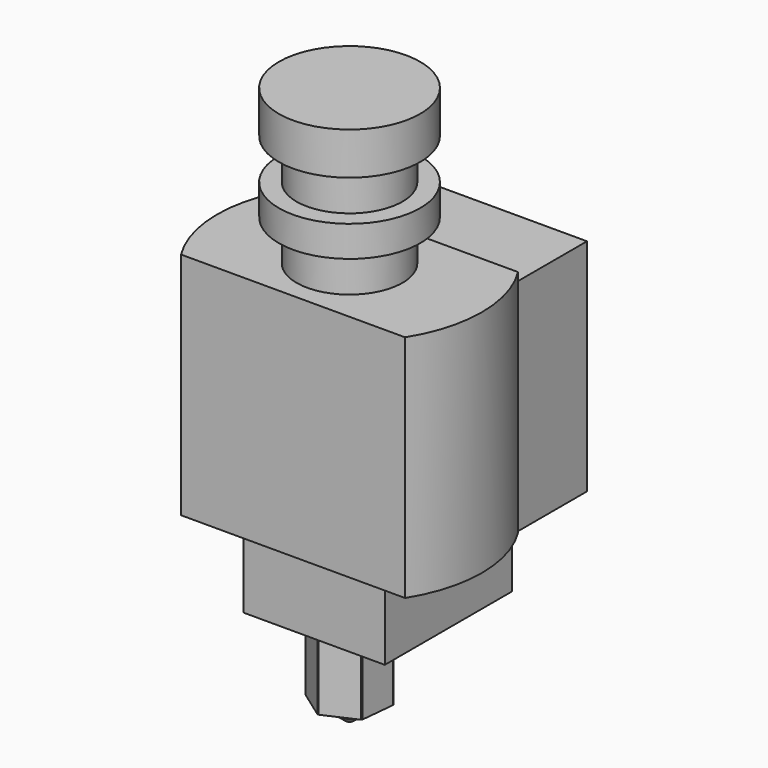
from build123d import *

# Parameters (mm, degrees)
F2_W          = 37.102
F2_H          = 46.096
F2_W_2        = 30
F2_H_2        = 16
F3_DEPTH      = 27.4
F4_W          = 5.5
F4_H          = 8
F4_W_2        = 5
F5_DEPTH      = 5
F5_DEPTH_BACK = 13
F6_R          = 5.9111779492
F7_DEPTH      = 25
F8_W          = 25
F8_H          = 24.945173396
F9_DEPTH      = 10


with BuildPart() as f1:
    # F0 (on Front) → F1 (revolve)
    with BuildSketch(Plane.XZ):
        Polygon((-1.5167587905, -24.0440348498), (-0.4654595977, -24.895950213), (0, -24.895950213), (0, -5.4683293174), (0, 38.0978930385), (-8, 38.0978930385), (-8, 33.2978930385), (-6, 33.2978930385), (-6, 28.6978930385), (-8, 28.6978930385), (-8, 25.1978930385), (-6, 25.1978930385), (-6, 20.5978930385), (-15, 20.5978930385), (-15, -5.4021069615), (-2.5, -5.4021069615), (-2.5, -14.9021069615), (-4, -14.9021069615), (-4, -22.9021069615), (-1.9699050371, -22.9202326714), (-1.5167587905, -23.1921206525), align=None)
    revolve(axis=Axis((0, 0, 26.8247116869), (0, 0, 1)))

    # F2 (on face) → F3 (cut)
    with BuildSketch(Plane.XY.offset(20.5978930385)):
        Rectangle(F2_W, F2_H)
        Rectangle(F2_W_2, F2_H_2, mode=Mode.SUBTRACT)
    extrude(amount=-F3_DEPTH, mode=Mode.SUBTRACT)

    # F4 (on Front) → F5 (join, two sides)
    with BuildSketch(Plane.XZ) as f5_sk:
        Polygon((8, -6.812995024), (2.5, -6.812995024), (2.5, -14.812995024), (4, -14.812995024), (8, -14.812995024), align=None)
        with Locations((-5.25, -10.812995024)):
            Rectangle(F4_W, F4_H)
        with Locations((0, -10.812995024)):
            Rectangle(F4_W_2, F4_H)
    extrude(amount=F5_DEPTH)
    extrude(f5_sk.sketch, amount=-F5_DEPTH_BACK)

    # F6 (on face) → F7 (cut)
    with BuildSketch(Plane(origin=(0, 0, -14.812995024), x_dir=(1, 0, 0), z_dir=(0, 0, -1))):
        Circle(F6_R)
        Polygon((3.6810046325, -1.6683939069), (0.3956308093, -4.0220404767), (-3.2853738232, -2.3536465697), (-3.6810046325, 1.6683939069), (-0.3956308093, 4.0220404767), (3.2853738232, 2.3536465697), align=None, mode=Mode.SUBTRACT)
    extrude(amount=F7_DEPTH, mode=Mode.SUBTRACT)

    # F8 (on face) → F9 (join)
    with BuildSketch(Plane(origin=(0, 8, 0), x_dir=(-1, 0, 0), z_dir=(0, 1, 0))):
        with Locations((0, 7.0704797366)):
            Rectangle(F8_W, F8_H)
    extrude(amount=F9_DEPTH)


solid = f1.part
